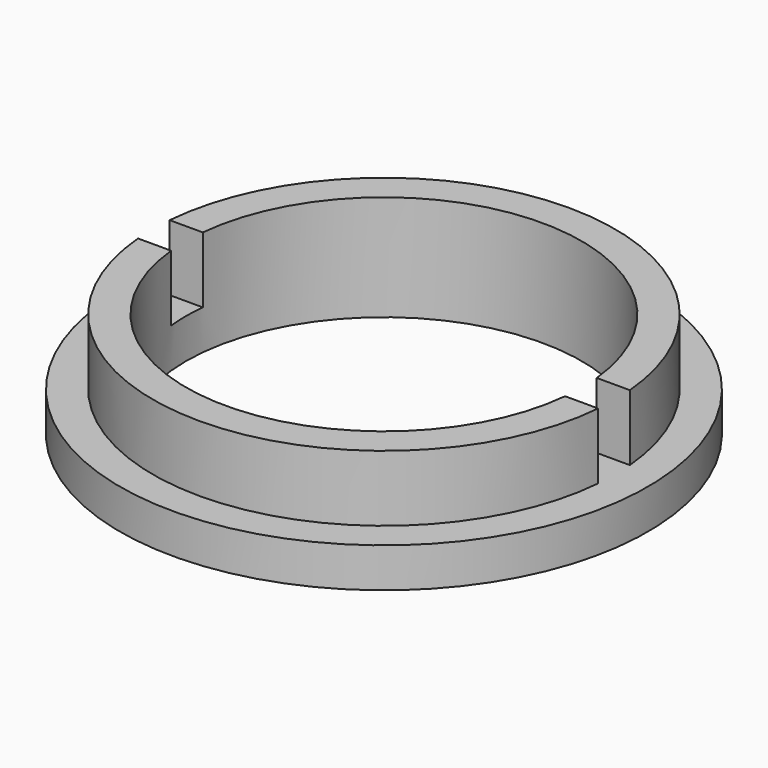
from build123d import *

# Parameters (mm, degrees)
F2_W     = 6
F2_H     = 10
F3_DEPTH = 50


with BuildPart() as f1:
    # F0 (on Front) → F1 (revolve)
    with BuildSketch(Plane.XZ):
        Polygon((-40, 0), (-30, 0), (-30, 16), (-35, 16), (-35, 6), (-40, 6), align=None)
    revolve(axis=Axis((0, 0, 15.326124), (0, 0, 1)))

    # F2 (on Right) → F3 (cut, symmetric)
    with BuildSketch(Plane.YZ):
        with Locations((0, 11)):
            Rectangle(F2_W, F2_H)
    extrude(amount=F3_DEPTH, both=True, mode=Mode.SUBTRACT)


solid = f1.part
